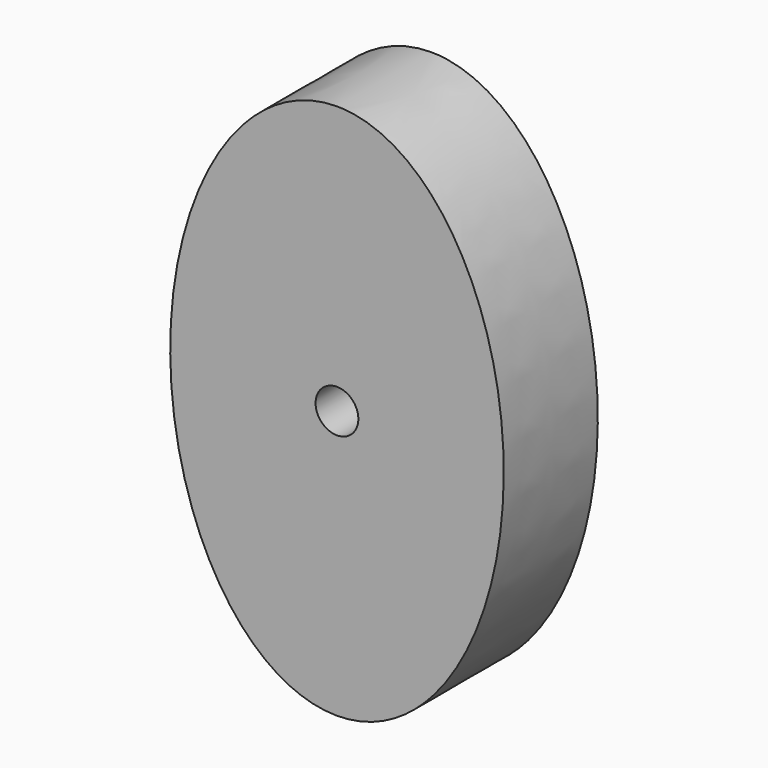
from build123d import *

# Parameters (mm, degrees)
F1_DEPTH = 19.05
F2_R     = 3.46564
F3_DEPTH = 25.4


with BuildPart() as f1:
    # F0 (on Front) → F1 (new body)
    with BuildSketch(Plane.XZ):
        with BuildLine():
            add(Edge.make_bspline(
                [(0, 43.458667), (-46.794293, 43.458667), (-23.397146, -21.729333), (0, -86.917333), (23.397146, -21.729333), (46.794293, 43.458667), (0, 43.458667)],
                knots=[0, 0, 0, 2.094395, 2.094395, 4.18879, 4.18879, 6.283185, 6.283185, 6.283185], degree=2, weights=[1, 0.5, 1, 0.5, 1, 0.5, 1]))
        make_face()
    extrude(amount=F1_DEPTH)

    # F2 (on Front) → F3 (cut)
    with BuildSketch(Plane.XZ):
        Circle(F2_R)
    extrude(amount=F3_DEPTH, mode=Mode.SUBTRACT)


solid = f1.part
